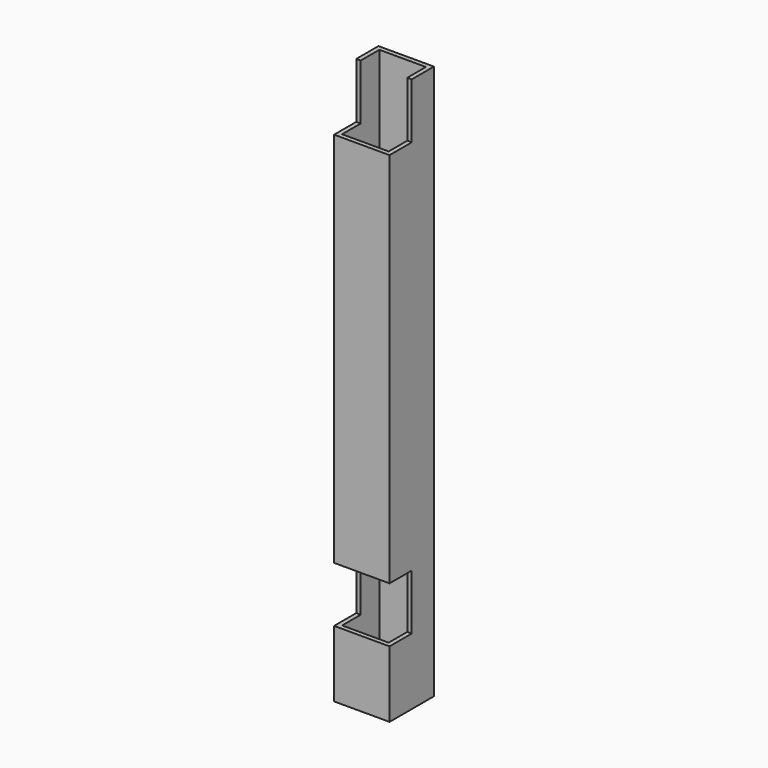
from build123d import *

# Parameters (mm, degrees)
F0_W     = 25
F0_H     = 25
F0_W_2   = 21
F0_H_2   = 21
F1_DEPTH = 250
F2_W     = 12.5
F2_H     = 25
F3_DEPTH = 25.001


with BuildPart() as f1:
    # F0 (on Top) → F1 (new body)
    with BuildSketch(Plane.XY):
        with Locations((12.5, 12.5)):
            Rectangle(F0_W, F0_H)
        with Locations((12.5, 12.5)):
            Rectangle(F0_W_2, F0_H_2, mode=Mode.SUBTRACT)
    extrude(amount=F1_DEPTH)

    # F2 (on face) → F3 (cut, through all)
    with BuildSketch(Plane.YZ.offset(25)):
        with Locations((6.25, 237.5)):
            Rectangle(F2_W, F2_H)
        with Locations((6.25, 42.5)):
            Rectangle(F2_W, F2_H)
    extrude(amount=-F3_DEPTH, mode=Mode.SUBTRACT)


solid = f1.part
